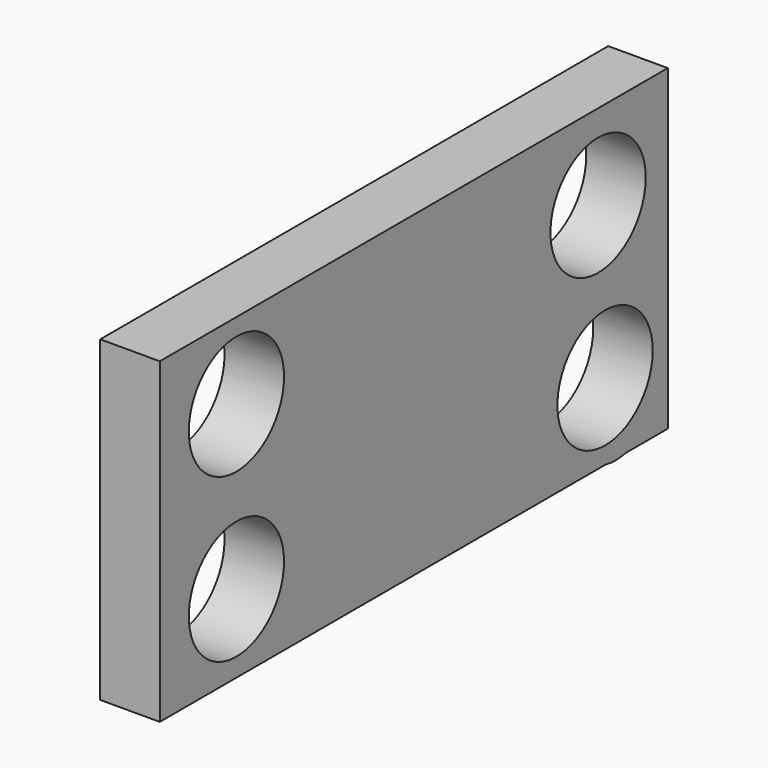
from build123d import *

# Parameters (mm, degrees)
F0_R     = 9.525
F1_DEPTH = 9.525


with BuildPart() as f1:
    # F0 (on Right) → F1 (new body)
    with BuildSketch(Plane.YZ):
        Polygon((50.8, 25.4), (-50.8, 25.4), (-50.8, -25.4), (38.320067, -25.4), (42.387699, -25.4), (50.8, -25.4), align=None)
        with Locations((-35.469551, -12.90859)):
            Circle(F0_R, mode=Mode.SUBTRACT)
        with Locations((38.260598, -13.141178)):
            Circle(F0_R, mode=Mode.SUBTRACT)
        with Locations((-35.469551, 13.141178)):
            Circle(F0_R, mode=Mode.SUBTRACT)
        with Locations((36.865074, 11.745654)):
            Circle(F0_R, mode=Mode.SUBTRACT)
        with BuildLine():
            Line((42.387699, -25.4), (38.320067, -25.4))
            ThreePointArc((38.320067, -25.4), (40.353883, -25.619667), (42.387699, -25.4))
        make_face()
    extrude(amount=F1_DEPTH)


solid = f1.part
